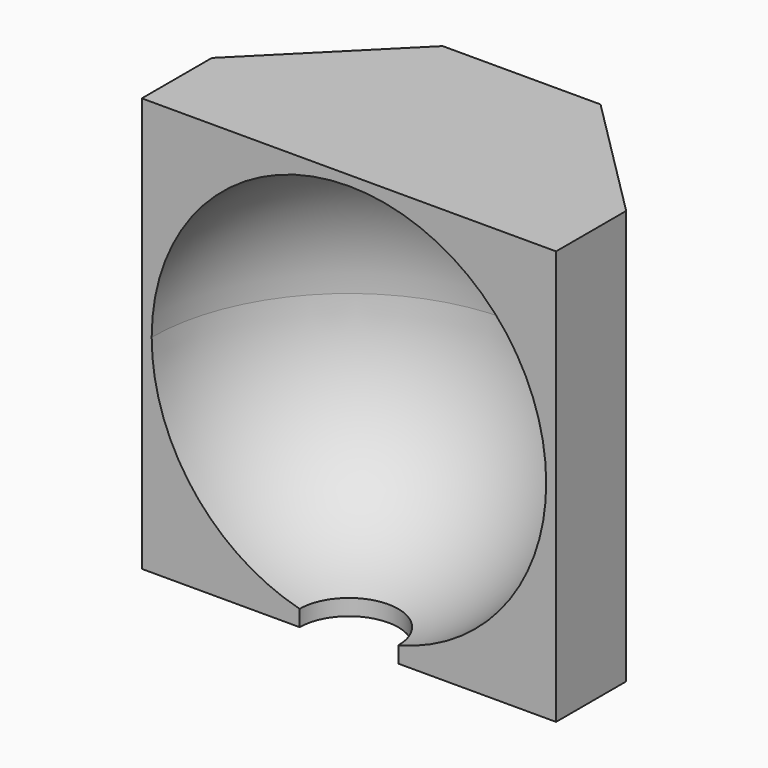
from build123d import *

# Parameters (mm, degrees)
F0_W     = 53.34
F0_H     = 53.34
F1_DEPTH = 27.78125
F3_R     = 6.35
F4_DEPTH = 38.1
F5_SIZE  = 16.4973
F6_SIZE  = 16.51


with BuildPart() as f1:
    # F0 (on Front) → F1 (new body)
    with BuildSketch(Plane.XZ):
        Rectangle(F0_W, F0_H)
        with BuildLine():
            ThreePointArc((0, 25.4), (17.9605122421, 17.9605122421), (25.4, 0))
            ThreePointArc((25.4, 0), (17.9605122421, -17.9605122421), (0, -25.4))
            ThreePointArc((0, -25.4), (-25.4, 0), (0, 25.4))
        make_face(mode=Mode.SUBTRACT)
        with BuildLine():
            Line((0, -25.4), (0, 25.4))
            ThreePointArc((0, 25.4), (-25.4, 0), (0, -25.4))
        make_face()
        with BuildLine():
            ThreePointArc((0, -25.4), (17.9605122421, -17.9605122421), (25.4, 0))
            ThreePointArc((25.4, 0), (17.9605122421, 17.9605122421), (0, 25.4))
            Line((0, 25.4), (0, -25.4))
        make_face()
    extrude(amount=-F1_DEPTH)

    # F0 (on Front) → F2 (revolve, cut)
    with BuildSketch(Plane.XZ):
        with BuildLine():
            ThreePointArc((0, -25.4), (17.9605122421, -17.9605122421), (25.4, 0))
            ThreePointArc((25.4, 0), (17.9605122421, 17.9605122421), (0, 25.4))
            Line((0, 25.4), (0, -25.4))
        make_face()
    revolve(axis=Axis((0, 0, 0), (0, 0, 1)), mode=Mode.SUBTRACT)

    # F3 (on Top) → F4 (cut)
    with BuildSketch(Plane.XY):
        Circle(F3_R)
    extrude(amount=-F4_DEPTH, mode=Mode.SUBTRACT)

    # F5
    f5_edges = [f1.edges().sort_by_distance(p)[0] for p in [
        (26.67, 27.78125, 0),
    ]]
    chamfer(f5_edges, length=F5_SIZE)

    # F6
    f6_edges = [f1.edges().sort_by_distance(p)[0] for p in [
        (-26.67, 27.78125, 0),
    ]]
    chamfer(f6_edges, length=F6_SIZE)


solid = f1.part
